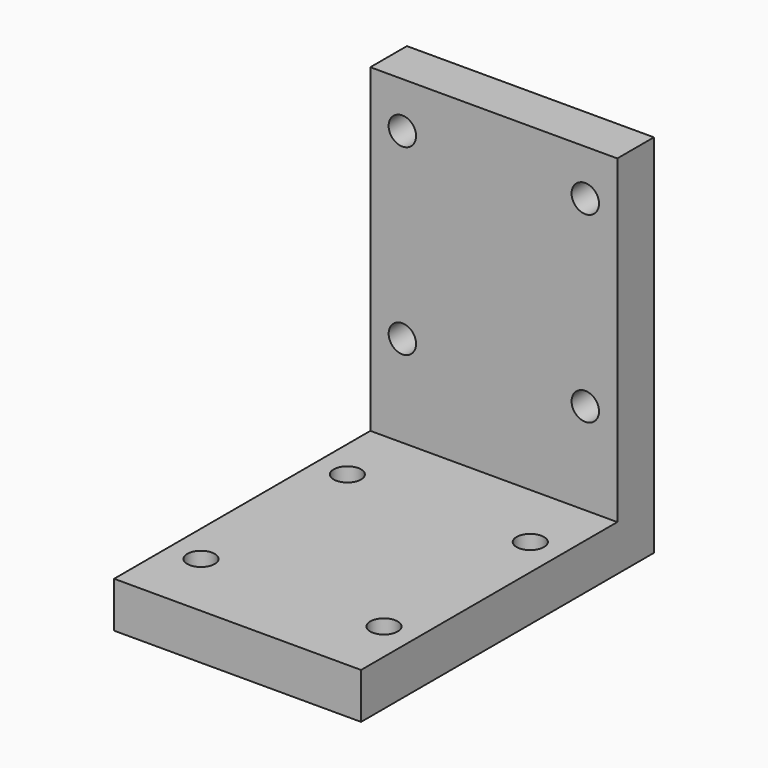
from build123d import *

# Parameters (mm, degrees)
F0_W      = 27
F0_H      = 35
F1_DEPTH  = 5
F2_D      = 3
F1_FACE_W = 27
F1_FACE_H = 5
F3_DEPTH  = 5
F4_W      = 5
F4_H      = 40
F5_DEPTH  = 13.5
F7_D      = 3


with BuildPart() as f1:
    # F0 (on Top) → F1 (new body)
    with BuildSketch(Plane.XY):
        Rectangle(F0_W, F0_H)
    extrude(amount=F1_DEPTH)

    # F2 (through all)
    with Locations(Plane(origin=(0, 0, 0), x_dir=(1, 0, 0), z_dir=(0, 0, -1))):
        with Locations((-10, 10), (10, 10), (10, -10), (-10, -10)):
            Hole(F2_D / 2)

    # F1_face (on face) → F3 (join)
    with BuildSketch(Plane(origin=(0, 17.5, 2.5), x_dir=(-1, 0, 0), z_dir=(0, 1, 0))):
        Rectangle(F1_FACE_W, F1_FACE_H)
    extrude(amount=F3_DEPTH)

    # F4 (on Right) → F5 (join, symmetric)
    with BuildSketch(Plane.YZ):
        with Locations((20.017813, 20)):
            Rectangle(F4_W, F4_H)
    extrude(amount=F5_DEPTH, both=True)

    # F7 (through all)
    with Locations(Plane.XZ):
        with Locations((-10, 35), (10, 35), (10, 15), (-10, 15)):
            Hole(F7_D / 2)


solid = f1.part
